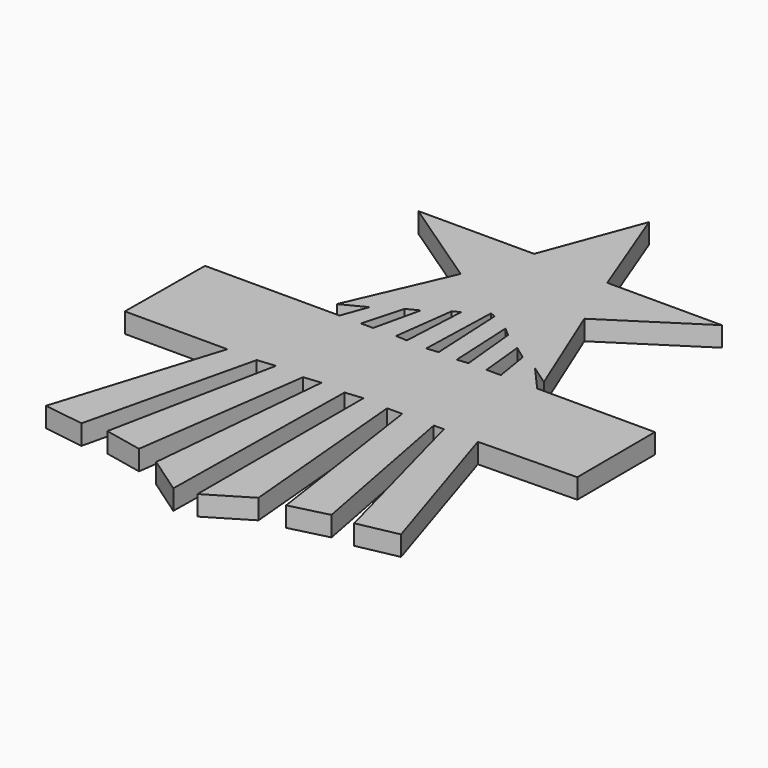
from build123d import *

# Parameters (mm, degrees)
F1_DEPTH = 3


with BuildPart() as f1:
    # F0 (on Top) → F1 (new body)
    with BuildSketch(Plane.XY):
        Polygon((-112.926836, 0.004443), (-118.767626, 15.196789), (-124.284977, 0.394141), (-141.779017, 0.394141), (-127.85107, -9.025726), (-134.444977, -24.164799), (-130.936858, -22.362645), (-132.35915, -26.250625), (-152.67915, -26.250625), (-152.799174, -41.2316), (-137.323676, -41.2316), (-144.994139, -65.857825), (-138.929132, -66.758923), (-132.882882, -41.2316), (-130.191522, -40.962152), (-135.305133, -66.396103), (-129.567399, -67.605936), (-125.885266, -41.2316), (-123.300462, -40.97282), (-125.885266, -68.952925), (-120.098776, -72.956369), (-119.616715, -41.2316), (-116.962913, -40.965912), (-116.962913, -72.317163), (-110.744054, -68.574946), (-113.186582, -41.2316), (-110.90286, -41.2316), (-107.001505, -68.030101), (-101.292202, -66.602776), (-106.145109, -41.2316), (-104.622629, -41.2316), (-97.866622, -66.602776), (-91.776701, -65.36576), (-99.484258, -41.2316), (-84.670836, -40.97282), (-84.721535, -26.250625), (-102.501535, -26.250625), (-105.948821, -22.362645), (-102.935558, -24.450401), (-109.310944, -8.844978), (-95.608622, 0.004443), align=None)
        Polygon((-129.142605, -26.250625), (-127.429816, -20.12761), (-125.686861, -19.232238), (-127.287082, -26.250625), align=None, mode=Mode.SUBTRACT)
        Polygon((-123.898953, -26.163155), (-122.719641, -17.130227), (-121.70087, -16.606875), (-122.196288, -26.250625), align=None, mode=Mode.SUBTRACT)
        Polygon((-119.130578, -26.424788), (-118.767626, -14.656196), (-117.951181, -14.960507), (-117.390959, -26.250625), align=None, mode=Mode.SUBTRACT)
        Polygon((-114.525939, -26.416255), (-115.012083, -16.606875), (-113.727491, -17.701157), (-112.871551, -26.250625), align=None, mode=Mode.SUBTRACT)
        Polygon((-110.167341, -26.250625), (-110.833426, -19.597496), (-108.827006, -21.079161), (-107.999686, -26.250625), align=None, mode=Mode.SUBTRACT)
        Polygon((-112.926836, 0.004443), (-118.767626, 15.196789), (-124.284977, 0.394141), (-141.779017, 0.394141), (-127.85107, -9.025726), (-134.444977, -24.164799), (-130.936858, -22.362645), (-132.35915, -26.250625), (-152.67915, -26.250625), (-152.799174, -41.2316), (-137.323676, -41.2316), (-144.994139, -65.857825), (-138.929132, -66.758923), (-132.882882, -41.2316), (-130.191522, -40.962152), (-135.305133, -66.396103), (-129.567399, -67.605936), (-125.885266, -41.2316), (-123.300462, -40.97282), (-125.885266, -68.952925), (-120.098776, -72.956369), (-119.616715, -41.2316), (-116.962913, -40.965912), (-116.962913, -72.317163), (-110.744054, -68.574946), (-113.186582, -41.2316), (-110.90286, -41.2316), (-107.001505, -68.030101), (-101.292202, -66.602776), (-106.145109, -41.2316), (-104.622629, -41.2316), (-97.866622, -66.602776), (-91.776701, -65.36576), (-99.484258, -41.2316), (-84.670836, -40.97282), (-84.721535, -26.250625), (-102.501535, -26.250625), (-105.948821, -22.362645), (-102.935558, -24.450401), (-109.310944, -8.844978), (-95.608622, 0.004443), align=None)
        Polygon((-129.142605, -26.250625), (-127.429816, -20.12761), (-125.686861, -19.232238), (-127.287082, -26.250625), align=None, mode=Mode.SUBTRACT)
        Polygon((-123.898953, -26.163155), (-122.719641, -17.130227), (-121.70087, -16.606875), (-122.196288, -26.250625), align=None, mode=Mode.SUBTRACT)
        Polygon((-119.130578, -26.424788), (-118.767626, -14.656196), (-117.951181, -14.960507), (-117.390959, -26.250625), align=None, mode=Mode.SUBTRACT)
        Polygon((-114.525939, -26.416255), (-115.012083, -16.606875), (-113.727491, -17.701157), (-112.871551, -26.250625), align=None, mode=Mode.SUBTRACT)
        Polygon((-110.167341, -26.250625), (-110.833426, -19.597496), (-108.827006, -21.079161), (-107.999686, -26.250625), align=None, mode=Mode.SUBTRACT)
    extrude(amount=F1_DEPTH)


solid = f1.part
